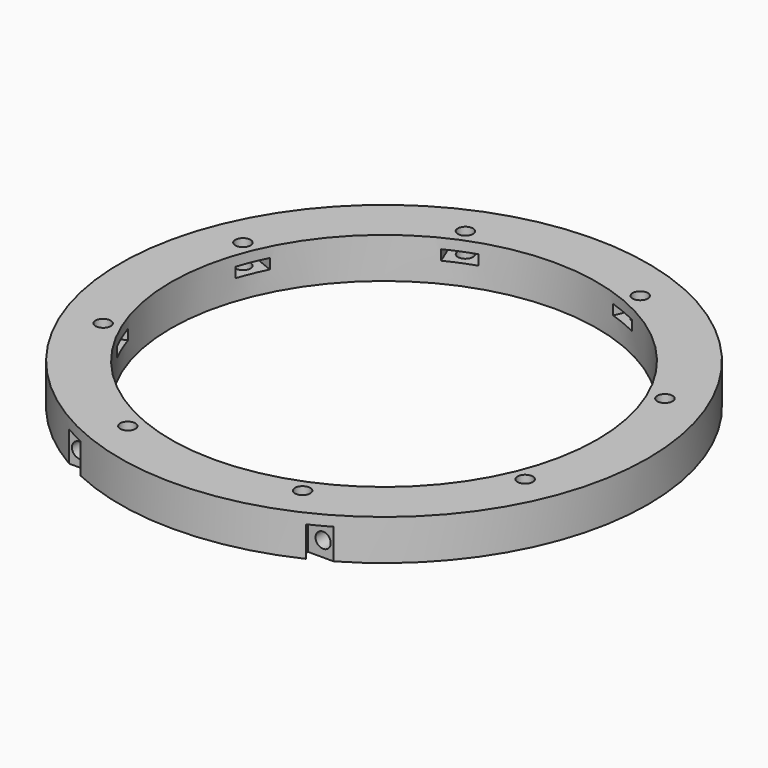
from build123d import *

# Parameters (mm, degrees)
CYLINDER1527_R               = 1.5
CYLINDER1527_DEPTH           = 20
CYLINDER1527_PLACEMENT_ANGLE = 45
CYLINDER1520_R               = 1.5
CYLINDER1520_DEPTH           = 20
CYLINDER1524_R               = 1.5
CYLINDER1524_DEPTH           = 20
CYLINDER1524_PLACEMENT_ANGLE = 135
CYLINDER1523_R               = 1.5
CYLINDER1523_DEPTH           = 20
CYLINDER1532_R               = 1.5
CYLINDER1532_DEPTH           = 20
CYLINDER1532_PLACEMENT_ANGLE = 225
CYLINDER1528_R               = 1.5
CYLINDER1528_DEPTH           = 20
CYLINDER1526_R               = 1.5
CYLINDER1526_DEPTH           = 20
CYLINDER1526_PLACEMENT_ANGLE = 45
CYLINDER1522_R               = 1.5
CYLINDER1522_DEPTH           = 20
COMPOUND911_PLACEMENT_ANGLE  = 22.5
BOX529_W                     = 6
BOX529_H                     = 8
BOX529_DEPTH                 = 2
BOX529_PLACEMENT_ANGLE       = 45
BOX525_W                     = 6
BOX525_H                     = 8
BOX525_DEPTH                 = 2
BOX532_W                     = 6
BOX532_H                     = 8
BOX532_DEPTH                 = 2
BOX532_PLACEMENT_ANGLE       = 135
BOX526_W                     = 6
BOX526_H                     = 8
BOX526_DEPTH                 = 2
BOX531_W                     = 6
BOX531_H                     = 8
BOX531_DEPTH                 = 2
BOX531_PLACEMENT_ANGLE       = 225
BOX522_W                     = 6
BOX522_H                     = 8
BOX522_DEPTH                 = 2
BOX533_W                     = 6
BOX533_H                     = 8
BOX533_DEPTH                 = 2
BOX533_PLACEMENT_ANGLE       = 45
BOX528_W                     = 6
BOX528_H                     = 8
BOX528_DEPTH                 = 2
COMPOUND923_PLACEMENT_ANGLE  = 22.5
CYLINDER1517_R               = 1.5
CYLINDER1517_DEPTH           = 20
CYLINDER1515_R               = 1.5
CYLINDER1515_DEPTH           = 20
CYLINDER1507_R               = 1.5
CYLINDER1507_DEPTH           = 20
CYLINDER1518_R               = 1.5
CYLINDER1518_DEPTH           = 20
BOX534_W                     = 6
BOX534_H                     = 2
BOX534_DEPTH                 = 6
BOX521_W                     = 6
BOX521_H                     = 2
BOX521_DEPTH                 = 6
BOX530_W                     = 6
BOX530_H                     = 2
BOX530_DEPTH                 = 6
BOX527_W                     = 6
BOX527_H                     = 2
BOX527_DEPTH                 = 6
TUBE094_R                    = 52
TUBE094_R_2                  = 42
TUBE094_DEPTH                = 8


with BuildPart() as obj1:
    # Cylinder1527 → Cylinder1527 (new body)
    with BuildSketch(Plane.XY):
        Circle(CYLINDER1527_R)
    extrude(amount=CYLINDER1527_DEPTH)


with BuildPart() as obj1_1:
    # Cylinder1527 placement: moved
    add(obj1.part.moved(Location((-31.819805, 31.819805, -18))).rotate(Axis((-31.819805, 31.819805, -18), (0, 0, 1)), CYLINDER1527_PLACEMENT_ANGLE))


with BuildPart() as obj2:
    # Cylinder1520 → Cylinder1520 (new body)
    with BuildSketch(Plane(origin=(-45, 0, -18), x_dir=(0, 1, 0), z_dir=(0, 0, 1))):
        Circle(CYLINDER1520_R)
    extrude(amount=CYLINDER1520_DEPTH)


with BuildPart() as obj3:
    # Cylinder1524 → Cylinder1524 (new body)
    with BuildSketch(Plane.XY):
        Circle(CYLINDER1524_R)
    extrude(amount=CYLINDER1524_DEPTH)


with BuildPart() as obj3_1:
    # Cylinder1524 placement: moved
    add(obj3.part.moved(Location((-31.819805, -31.819805, -18))).rotate(Axis((-31.819805, -31.819805, -18), (0, 0, 1)), CYLINDER1524_PLACEMENT_ANGLE))


with BuildPart() as obj4:
    # Cylinder1523 → Cylinder1523 (new body)
    with BuildSketch(Plane(origin=(0, -45, -18), x_dir=(-1, 0, 0), z_dir=(0, 0, 1))):
        Circle(CYLINDER1523_R)
    extrude(amount=CYLINDER1523_DEPTH)


with BuildPart() as obj5:
    # Cylinder1532 → Cylinder1532 (new body)
    with BuildSketch(Plane.XY):
        Circle(CYLINDER1532_R)
    extrude(amount=CYLINDER1532_DEPTH)


with BuildPart() as obj5_1:
    # Cylinder1532 placement: moved
    add(obj5.part.moved(Location((31.819805, -31.819805, -18))).rotate(Axis((31.819805, -31.819805, -18), (0, 0, 1)), CYLINDER1532_PLACEMENT_ANGLE))


with BuildPart() as obj6:
    # Cylinder1528 → Cylinder1528 (new body)
    with BuildSketch(Plane(origin=(45, 0, -18), x_dir=(0, -1, 0), z_dir=(0, 0, 1))):
        Circle(CYLINDER1528_R)
    extrude(amount=CYLINDER1528_DEPTH)


with BuildPart() as obj7:
    # Cylinder1526 → Cylinder1526 (new body)
    with BuildSketch(Plane.XY):
        Circle(CYLINDER1526_R)
    extrude(amount=CYLINDER1526_DEPTH)


with BuildPart() as obj7_1:
    # Cylinder1526 placement: moved
    add(obj7.part.moved(Location((31.819805, 31.819805, -18))).rotate(Axis((31.819805, 31.819805, -18), (0, 0, -1)), CYLINDER1526_PLACEMENT_ANGLE))


with BuildPart() as compound911:
    # Cylinder1522 → Cylinder1522 (new body)
    with BuildSketch(Plane(origin=(0, 45, -18), x_dir=(1, 0, 0), z_dir=(0, 0, 1))):
        Circle(CYLINDER1522_R)
    extrude(amount=CYLINDER1522_DEPTH)

    # Compound911: union obj1, obj2, obj3, obj4, obj5, obj6, obj7
    add(obj1_1.part)
    add(obj2.part)
    add(obj3_1.part)
    add(obj4.part)
    add(obj5_1.part)
    add(obj6.part)
    add(obj7_1.part)


with BuildPart() as compound911_1:
    # Compound911 placement: moved
    add(compound911.part.rotate(Axis((0, 0, 0), (0, 0, 1)), COMPOUND911_PLACEMENT_ANGLE))


with BuildPart() as krychle529:
    # Box529 → Box529 (new body)
    with BuildSketch(Plane.XY):
        with Locations((3, 4)):
            Rectangle(BOX529_W, BOX529_H)
    extrude(amount=BOX529_DEPTH)


with BuildPart() as krychle529_1:
    # Box529 placement: moved
    add(krychle529.part.moved(Location((-31.112698, 26.870058, -4))).rotate(Axis((-31.112698, 26.870058, -4), (0, 0, 1)), BOX529_PLACEMENT_ANGLE))


with BuildPart() as krychle525:
    # Box525 → Box525 (new body)
    with BuildSketch(Plane(origin=(-41, -3, -4), x_dir=(0, 1, 0), z_dir=(0, 0, 1))):
        with Locations((3, 4)):
            Rectangle(BOX525_W, BOX525_H)
    extrude(amount=BOX525_DEPTH)


with BuildPart() as krychle532:
    # Box532 → Box532 (new body)
    with BuildSketch(Plane.XY):
        with Locations((3, 4)):
            Rectangle(BOX532_W, BOX532_H)
    extrude(amount=BOX532_DEPTH)


with BuildPart() as krychle532_1:
    # Box532 placement: moved
    add(krychle532.part.moved(Location((-26.870058, -31.112698, -4))).rotate(Axis((-26.870058, -31.112698, -4), (0, 0, 1)), BOX532_PLACEMENT_ANGLE))


with BuildPart() as krychle526:
    # Box526 → Box526 (new body)
    with BuildSketch(Plane(origin=(3, -41, -4), x_dir=(-1, 0, 0), z_dir=(0, 0, 1))):
        with Locations((3, 4)):
            Rectangle(BOX526_W, BOX526_H)
    extrude(amount=BOX526_DEPTH)


with BuildPart() as krychle531:
    # Box531 → Box531 (new body)
    with BuildSketch(Plane.XY):
        with Locations((3, 4)):
            Rectangle(BOX531_W, BOX531_H)
    extrude(amount=BOX531_DEPTH)


with BuildPart() as krychle531_1:
    # Box531 placement: moved
    add(krychle531.part.moved(Location((31.112698, -26.870058, -4))).rotate(Axis((31.112698, -26.870058, -4), (0, 0, 1)), BOX531_PLACEMENT_ANGLE))


with BuildPart() as krychle522:
    # Box522 → Box522 (new body)
    with BuildSketch(Plane(origin=(41, 3, -4), x_dir=(0, -1, 0), z_dir=(0, 0, 1))):
        with Locations((3, 4)):
            Rectangle(BOX522_W, BOX522_H)
    extrude(amount=BOX522_DEPTH)


with BuildPart() as krychle533:
    # Box533 → Box533 (new body)
    with BuildSketch(Plane.XY):
        with Locations((3, 4)):
            Rectangle(BOX533_W, BOX533_H)
    extrude(amount=BOX533_DEPTH)


with BuildPart() as krychle533_1:
    # Box533 placement: moved
    add(krychle533.part.moved(Location((26.870058, 31.112698, -4))).rotate(Axis((26.870058, 31.112698, -4), (0, 0, -1)), BOX533_PLACEMENT_ANGLE))


with BuildPart() as compound923:
    # Box528 → Box528 (new body)
    with BuildSketch(Plane(origin=(-3, 41, -4), x_dir=(1, 0, 0), z_dir=(0, 0, 1))):
        with Locations((3, 4)):
            Rectangle(BOX528_W, BOX528_H)
    extrude(amount=BOX528_DEPTH)

    # Compound923: union Krychle529, Krychle525, Krychle532, Krychle526, Krychle531, Krychle522, Krychle533
    add(krychle529_1.part)
    add(krychle525.part)
    add(krychle532_1.part)
    add(krychle526.part)
    add(krychle531_1.part)
    add(krychle522.part)
    add(krychle533_1.part)


with BuildPart() as compound923_1:
    # Compound923 placement: moved
    add(compound923.part.rotate(Axis((0, 0, 0), (0, 0, 1)), COMPOUND923_PLACEMENT_ANGLE))


with BuildPart() as obj8:
    # Cylinder1517 → Cylinder1517 (new body)
    with BuildSketch(Plane(origin=(24, -40, -5), x_dir=(1, 0, 0), z_dir=(0, -1, 0))):
        Circle(CYLINDER1517_R)
    extrude(amount=CYLINDER1517_DEPTH)


with BuildPart() as obj9:
    # Cylinder1515 → Cylinder1515 (new body)
    with BuildSketch(Plane(origin=(51, -40, 7), x_dir=(1, 0, 0), z_dir=(0, -1, 0))):
        Circle(CYLINDER1515_R)
    extrude(amount=CYLINDER1515_DEPTH)


with BuildPart() as obj10:
    # Cylinder1507 → Cylinder1507 (new body)
    with BuildSketch(Plane(origin=(-51, -40, 7), x_dir=(1, 0, 0), z_dir=(0, -1, 0))):
        Circle(CYLINDER1507_R)
    extrude(amount=CYLINDER1507_DEPTH)


with BuildPart() as compound913:
    # Cylinder1518 → Cylinder1518 (new body)
    with BuildSketch(Plane(origin=(-24, -40, -5), x_dir=(1, 0, 0), z_dir=(0, -1, 0))):
        Circle(CYLINDER1518_R)
    extrude(amount=CYLINDER1518_DEPTH)

    # Compound913: union obj8, obj9, obj10
    add(obj8.part)
    add(obj9.part)
    add(obj10.part)


with BuildPart() as krychle534:
    # Box534 → Box534 (new body)
    with BuildSketch(Plane(origin=(21, -47, -8), x_dir=(1, 0, 0), z_dir=(0, 0, 1))):
        with Locations((3, 1)):
            Rectangle(BOX534_W, BOX534_H)
    extrude(amount=BOX534_DEPTH)


with BuildPart() as krychle521:
    # Box521 → Box521 (new body)
    with BuildSketch(Plane(origin=(48, -45, 4), x_dir=(1, 0, 0), z_dir=(0, 0, 1))):
        with Locations((3, 1)):
            Rectangle(BOX521_W, BOX521_H)
    extrude(amount=BOX521_DEPTH)


with BuildPart() as krychle530:
    # Box530 → Box530 (new body)
    with BuildSketch(Plane(origin=(-54, -45, 4), x_dir=(1, 0, 0), z_dir=(0, 0, 1))):
        with Locations((3, 1)):
            Rectangle(BOX530_W, BOX530_H)
    extrude(amount=BOX530_DEPTH)


with BuildPart() as compound922:
    # Box527 → Box527 (new body)
    with BuildSketch(Plane(origin=(-27, -47, -8), x_dir=(1, 0, 0), z_dir=(0, 0, 1))):
        with Locations((3, 1)):
            Rectangle(BOX527_W, BOX527_H)
    extrude(amount=BOX527_DEPTH)

    # Compound922: union Krychle534, Krychle521, Krychle530
    add(krychle534.part)
    add(krychle521.part)
    add(krychle530.part)


with BuildPart() as cut554:
    # Tube094 → Tube094 (new body)
    with BuildSketch(Plane.XY.offset(-8)):
        Circle(TUBE094_R)
        Circle(TUBE094_R_2, mode=Mode.SUBTRACT)
    extrude(amount=TUBE094_DEPTH)

    # Cut549: cut Compound922
    add(compound922.part, mode=Mode.SUBTRACT)

    # Cut555: cut Compound913
    add(compound913.part, mode=Mode.SUBTRACT)

    # Cut551: cut Compound923
    add(compound923_1.part, mode=Mode.SUBTRACT)

    # Cut554: cut Compound911
    add(compound911_1.part, mode=Mode.SUBTRACT)


with BuildPart() as cut554_1:
    # Cut554 placement: moved
    add(cut554.part.moved(Location((0, 0, -6))))


solid = cut554_1.part
